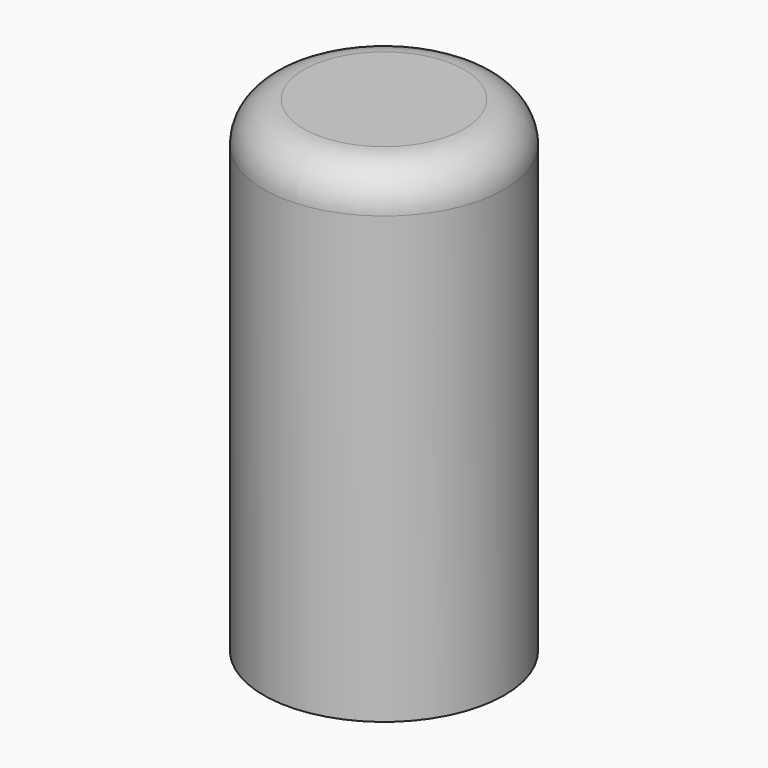
from build123d import *

# Parameters (mm, degrees)
F0_R     = 7.62
F1_DEPTH = 30.734
F2_R     = 2.54
F4_DEPTH = 10.16


with BuildPart() as f1:
    # F0 (on Top) → F1 (new body)
    with BuildSketch(Plane.XY):
        Circle(F0_R)
    extrude(amount=F1_DEPTH)

    # F2
    f2_edges = [f1.edges().sort_by_distance(p)[0] for p in [
        (-7.62, 0, 30.734),
    ]]
    fillet(f2_edges, radius=F2_R)

    # F3 (on Top) → F4 (cut)
    with BuildSketch(Plane.XY):
        Polygon((2.346351, 4.064), (-2.346351, 4.064), (-4.692703, 0), (-2.346351, -4.064), (2.346351, -4.064), (4.692703, 0), align=None)
    extrude(amount=F4_DEPTH, mode=Mode.SUBTRACT)


solid = f1.part
